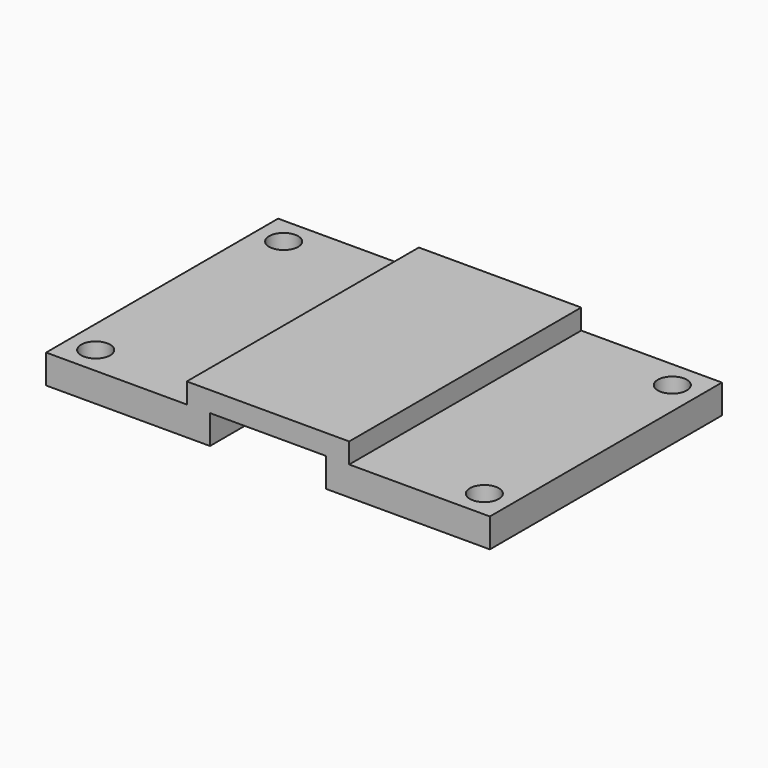
from build123d import *

# Parameters (mm, degrees)
F1_DEPTH = 50.8
F2_R     = 2.54
F3_DEPTH = 5.081


with BuildPart() as f1:
    # F0 (on Front) → F1 (new body)
    with BuildSketch(Plane.XZ):
        Polygon((0, 5.08), (0, 0), (28.702, 0), (28.702, 5.08), (49.022, 5.08), (49.022, 0), (77.724, 0), (77.724, 5.08), (53.086, 5.08), (53.086, 8.636), (24.638, 8.636), (24.638, 5.08), align=None)
    extrude(amount=F1_DEPTH)

    # F2 (on face) → F3 (cut, through all)
    with BuildSketch(Plane.XY.offset(5.08)):
        with Locations((4.826, -4.826)):
            Circle(F2_R)
        with Locations((4.826, -45.974)):
            Circle(F2_R)
        with Locations((72.898, -45.974)):
            Circle(F2_R)
        with Locations((72.898, -4.826)):
            Circle(F2_R)
    extrude(amount=-F3_DEPTH, mode=Mode.SUBTRACT)


solid = f1.part
